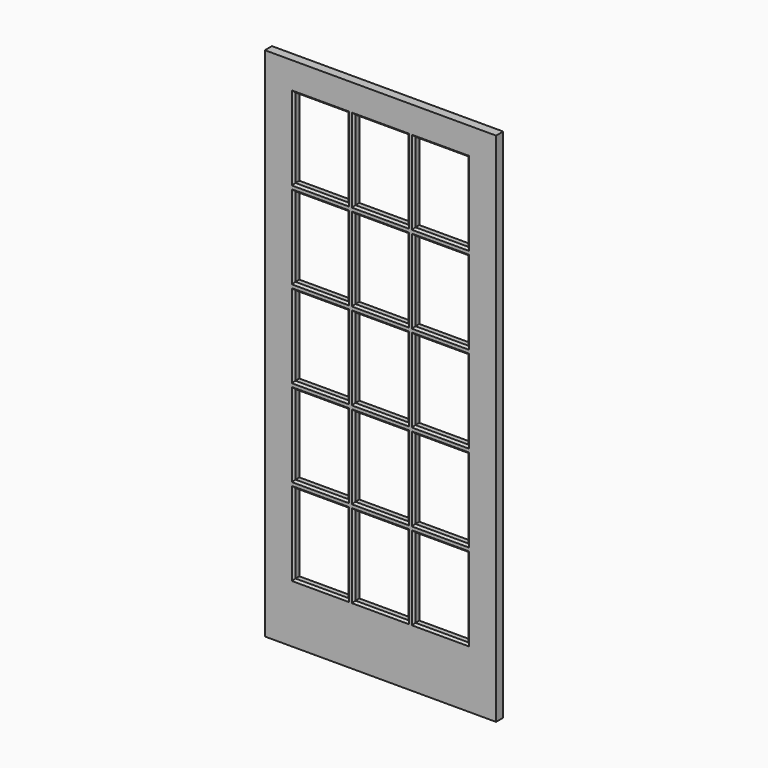
from build123d import *

# Parameters (mm, degrees)
F0_W     = 910.43125
F0_H     = 34.925
F1_DEPTH = 2032
F2_W     = 209.55
F2_H     = 313.53125
F3_DEPTH = 34.926
F4_SIZE  = 7.9375


with BuildPart() as f1:
    # F0 (on Top) → F1 (new body)
    with BuildSketch(Plane.XY):
        with Locations((-455.215625, 17.4625)):
            Rectangle(F0_W, F0_H)
    extrude(amount=F1_DEPTH)

    # F2 (on Front) → F3 (cut, through all)
    with BuildSketch(Plane.XZ):
        with Locations((-691.35625, 391.715625)):
            Rectangle(F2_W, F2_H)
        with Locations((-455.215625, 391.715625)):
            Rectangle(F2_W, F2_H)
        with Locations((-219.075, 391.715625)):
            Rectangle(F2_W, F2_H)
        with Locations((-691.35625, 734.417188)):
            Rectangle(F2_W, F2_H)
        with Locations((-455.215625, 734.417188)):
            Rectangle(F2_W, F2_H)
        with Locations((-219.075, 734.417188)):
            Rectangle(F2_W, F2_H)
        with Locations((-691.35625, 1077.11875)):
            Rectangle(F2_W, F2_H)
        with Locations((-455.215625, 1077.11875)):
            Rectangle(F2_W, F2_H)
        with Locations((-219.075, 1077.11875)):
            Rectangle(F2_W, F2_H)
        with Locations((-691.35625, 1419.820313)):
            Rectangle(F2_W, F2_H)
        with Locations((-455.215625, 1419.820313)):
            Rectangle(F2_W, F2_H)
        with Locations((-219.075, 1419.820313)):
            Rectangle(F2_W, F2_H)
        with Locations((-691.35625, 1762.521875)):
            Rectangle(F2_W, F2_H)
        with Locations((-455.215625, 1762.521875)):
            Rectangle(F2_W, F2_H)
        with Locations((-219.075, 1762.521875)):
            Rectangle(F2_W, F2_H)
    extrude(amount=-F3_DEPTH, mode=Mode.SUBTRACT)

    # F4
    f4_edges = [f1.edges().sort_by_distance(p)[0] for p in [
        (-586.58125, 0, 1762.521875),
        (-691.35625, 0, 1605.75625),
        (-559.990625, 0, 1762.521875),
        (-455.215625, 0, 1605.75625),
        (-559.990625, 0, 1419.820313),
        (-691.35625, 0, 1576.585938),
        (-586.58125, 0, 1419.820313),
        (-350.440625, 0, 1762.521875),
        (-455.215625, 0, 1576.585938),
        (-350.440625, 0, 1419.820313),
        (-323.85, 0, 1419.820313),
        (-219.075, 0, 1576.585938),
        (-219.075, 0, 1605.75625),
        (-323.85, 0, 1762.521875),
        (-691.35625, 0, 1263.054688),
        (-691.35625, 0, 1233.884375),
        (-691.35625, 0, 920.353125),
        (-691.35625, 0, 891.182813),
        (-691.35625, 0, 577.651563),
        (-691.35625, 0, 548.48125),
        (-691.35625, 0, 234.95),
        (-691.35625, 0, 1919.2875),
        (-796.13125, 0, 1762.521875),
        (-796.13125, 0, 1419.820312),
        (-796.13125, 0, 1077.11875),
        (-796.13125, 0, 734.417188),
        (-796.13125, 0, 391.715625),
        (-586.58125, 0, 391.715625),
        (-586.58125, 0, 734.417188),
        (-586.58125, 0, 1077.11875),
        (-455.215625, 0, 1919.2875),
        (-219.075, 0, 1919.2875),
        (-114.3, 0, 1762.521875),
        (-114.3, 0, 1419.820312),
        (-114.3, 0, 1077.11875),
        (-114.3, 0, 734.417188),
        (-114.3, 0, 391.715625),
        (-219.075, 0, 234.95),
        (-455.215625, 0, 234.95),
        (-559.990625, 0, 391.715625),
        (-559.990625, 0, 734.417188),
        (-559.990625, 0, 1077.11875),
        (-323.85, 0, 391.715625),
        (-350.440625, 0, 391.715625),
        (-455.215625, 0, 548.48125),
        (-219.075, 0, 548.48125),
        (-219.075, 0, 577.651563),
        (-455.215625, 0, 577.651563),
        (-350.440625, 0, 734.417188),
        (-323.85, 0, 734.417188),
        (-219.075, 0, 891.182813),
        (-455.215625, 0, 891.182813),
        (-455.215625, 0, 920.353125),
        (-219.075, 0, 920.353125),
        (-323.85, 0, 1077.11875),
        (-350.440625, 0, 1077.11875),
        (-455.215625, 0, 1233.884375),
        (-455.215625, 0, 1263.054688),
        (-219.075, 0, 1263.054688),
        (-219.075, 0, 1233.884375),
        (-691.35625, 34.925, 234.95),
        (-455.215625, 34.925, 234.95),
        (-219.075, 34.925, 234.95),
        (-114.3, 34.925, 391.715625),
        (-114.3, 34.925, 734.417188),
        (-114.3, 34.925, 1077.11875),
        (-114.3, 34.925, 1419.820312),
        (-114.3, 34.925, 1762.521875),
        (-219.075, 34.925, 1919.2875),
        (-455.215625, 34.925, 1919.2875),
        (-691.35625, 34.925, 1919.2875),
        (-796.13125, 34.925, 1762.521875),
        (-796.13125, 34.925, 1419.820312),
        (-796.13125, 34.925, 1077.11875),
        (-796.13125, 34.925, 734.417188),
        (-796.13125, 34.925, 391.715625),
        (-586.58125, 34.925, 391.715625),
        (-559.990625, 34.925, 391.715625),
        (-350.440625, 34.925, 391.715625),
        (-323.85, 34.925, 391.715625),
        (-219.075, 34.925, 548.48125),
        (-219.075, 34.925, 577.651563),
        (-455.215625, 34.925, 577.651563),
        (-455.215625, 34.925, 548.48125),
        (-691.35625, 34.925, 548.48125),
        (-691.35625, 34.925, 577.651563),
        (-586.58125, 34.925, 734.417188),
        (-559.990625, 34.925, 734.417188),
        (-350.440625, 34.925, 734.417188),
        (-323.85, 34.925, 734.417188),
        (-219.075, 34.925, 891.182813),
        (-219.075, 34.925, 920.353125),
        (-455.215625, 34.925, 920.353125),
        (-455.215625, 34.925, 891.182813),
        (-691.35625, 34.925, 891.182813),
        (-691.35625, 34.925, 920.353125),
        (-586.58125, 34.925, 1077.11875),
        (-559.990625, 34.925, 1077.11875),
        (-350.440625, 34.925, 1077.11875),
        (-323.85, 34.925, 1077.11875),
        (-691.35625, 34.925, 1233.884375),
        (-455.215625, 34.925, 1233.884375),
        (-219.075, 34.925, 1233.884375),
        (-219.075, 34.925, 1263.054688),
        (-455.215625, 34.925, 1263.054688),
        (-691.35625, 34.925, 1263.054688),
        (-586.58125, 34.925, 1419.820312),
        (-559.990625, 34.925, 1419.820312),
        (-350.440625, 34.925, 1419.820312),
        (-323.85, 34.925, 1419.820312),
        (-219.075, 34.925, 1576.585938),
        (-219.075, 34.925, 1605.75625),
        (-455.215625, 34.925, 1605.75625),
        (-455.215625, 34.925, 1576.585938),
        (-691.35625, 34.925, 1605.75625),
        (-691.35625, 34.925, 1576.585938),
        (-586.58125, 34.925, 1762.521875),
        (-559.990625, 34.925, 1762.521875),
        (-350.440625, 34.925, 1762.521875),
        (-323.85, 34.925, 1762.521875),
    ]]
    chamfer(f4_edges, length=F4_SIZE)


solid = f1.part
